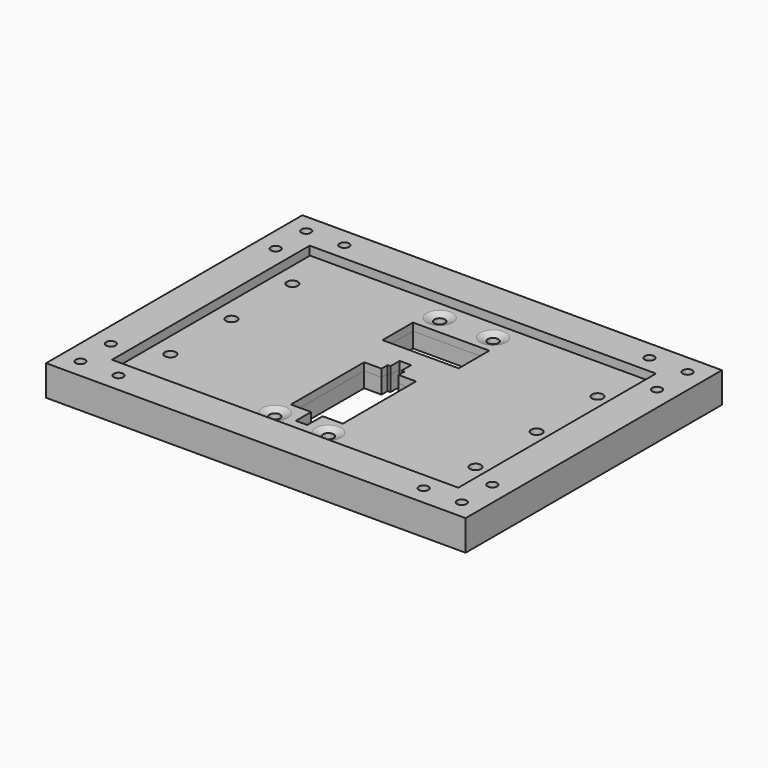
from build123d import *

# Parameters (mm, degrees)
SKETCH_W        = 90
SKETCH_H        = 64
SKETCH_R        = 1.4
SKETCH_W_2      = 20
SKETCH_H_2      = 10
PAD_DEPTH       = 4
POCKET_DEPTH    = 2
SKETCH005_W     = 110
SKETCH005_H     = 84
SKETCH005_R     = 1.25
SKETCH005_W_2   = 90
SKETCH005_H_2   = 64
PAD002_DEPTH    = 8
SKETCH006_W     = 90.8
SKETCH006_H     = 64.8
POCKET001_DEPTH = 4
SKETCH003_W     = 90
SKETCH003_H     = 64
SKETCH003_R     = 1.4
SKETCH003_W_2   = 20
SKETCH003_H_2   = 10
SKETCH003_W_3   = 13.6
SKETCH003_H_3   = 24
PAD001_DEPTH    = 2
SKETCH004_R     = 1.45
HOLE_DEPTH      = 25
SKETCH007_W     = 3
SKETCH007_H     = 5
POCKET002_DEPTH = 2.001
CHAMFER_SIZE2   = 0.8
CHAMFER_SIZE    = 2


with BuildPart() as mountingplatebody:
    # Sketch → Pad (new body)
    with BuildSketch(Plane.XY):
        Rectangle(SKETCH_W, SKETCH_H)
        with Locations((-40, 20)):
            Circle(SKETCH_R, mode=Mode.SUBTRACT)
        with Locations((-40, 0)):
            Circle(SKETCH_R, mode=Mode.SUBTRACT)
        with Locations((-40, -20)):
            Circle(SKETCH_R, mode=Mode.SUBTRACT)
        with Locations((40, 20)):
            Circle(SKETCH_R, mode=Mode.SUBTRACT)
        with Locations((40, 0)):
            Circle(SKETCH_R, mode=Mode.SUBTRACT)
        with Locations((40, -20)):
            Circle(SKETCH_R, mode=Mode.SUBTRACT)
        with Locations((-7, 27)):
            Circle(SKETCH_R, mode=Mode.SUBTRACT)
        with Locations((7, 27)):
            Circle(SKETCH_R, mode=Mode.SUBTRACT)
        with Locations((7, -27)):
            Circle(SKETCH_R, mode=Mode.SUBTRACT)
        with Locations((-7, -27)):
            Circle(SKETCH_R, mode=Mode.SUBTRACT)
        with Locations((0, 17)):
            Rectangle(SKETCH_W_2, SKETCH_H_2, mode=Mode.SUBTRACT)
        Polygon((-6.8, 2), (-2.25, 2), (-2.25, 4), (-1.5, 4), (-1.5, 7), (1.5, 7), (1.5, 4), (2.25, 4), (2.25, 2), (6.8, 2), (6.8, -22), (1.5, -22), (1.5, -27), (-1.5, -27), (-1.5, -22), (-6.8, -22), align=None, mode=Mode.SUBTRACT)
    extrude(amount=PAD_DEPTH)

    # Sketch002 (on DatumPlane) → Pocket (cut)
    with BuildSketch(Plane.XY.offset(4)):
        Polygon((42.7, 21.558846), (40, 23.117691), (37.3, 21.558846), (37.3, 18.441154), (40, 16.882309), (42.7, 18.441154), align=None)
        Polygon((-40, 3.117691), (-42.7, 1.558846), (-42.7, -1.558846), (-40, -3.117691), (-37.3, -1.558846), (-37.3, 1.558846), align=None)
        Polygon((40, 3.117691), (37.3, 1.558846), (37.3, -1.558846), (40, -3.117691), (42.7, -1.558846), (42.7, 1.558846), align=None)
        Polygon((40, -23.117691), (42.7, -21.558846), (42.7, -18.441154), (40, -16.882309), (37.3, -18.441154), (37.3, -21.558846), align=None)
        Polygon((-37.3, 18.441154), (-37.3, 21.558846), (-40, 23.117691), (-42.7, 21.558846), (-42.7, 18.441154), (-40, 16.882309), align=None)
        Polygon((-40, -23.117691), (-37.3, -21.558846), (-37.3, -18.441154), (-40, -16.882309), (-42.7, -18.441154), (-42.7, -21.558846), align=None)
    extrude(amount=-POCKET_DEPTH, mode=Mode.SUBTRACT)

    # Sketch005 (on Face4 of Pocket) → Pad002 (join)
    with BuildSketch(Plane(origin=(0, 0, 0), x_dir=(1, 0, 0), z_dir=(0, 0, -1))):
        Rectangle(SKETCH005_W, SKETCH005_H)
        with Locations((-50, 37)):
            Circle(SKETCH005_R, mode=Mode.SUBTRACT)
        with Locations((-50, 27)):
            Circle(SKETCH005_R, mode=Mode.SUBTRACT)
        with Locations((-40, 37)):
            Circle(SKETCH005_R, mode=Mode.SUBTRACT)
        with Locations((50, 27)):
            Circle(SKETCH005_R, mode=Mode.SUBTRACT)
        with Locations((50, 37)):
            Circle(SKETCH005_R, mode=Mode.SUBTRACT)
        with Locations((40, 37)):
            Circle(SKETCH005_R, mode=Mode.SUBTRACT)
        with Locations((-50, -37)):
            Circle(SKETCH005_R, mode=Mode.SUBTRACT)
        with Locations((-40, -37)):
            Circle(SKETCH005_R, mode=Mode.SUBTRACT)
        with Locations((-50, -27)):
            Circle(SKETCH005_R, mode=Mode.SUBTRACT)
        with Locations((40, -37)):
            Circle(SKETCH005_R, mode=Mode.SUBTRACT)
        with Locations((50, -37)):
            Circle(SKETCH005_R, mode=Mode.SUBTRACT)
        with Locations((50, -27)):
            Circle(SKETCH005_R, mode=Mode.SUBTRACT)
        Rectangle(SKETCH005_W_2, SKETCH005_H_2, mode=Mode.SUBTRACT)
    extrude(amount=-PAD002_DEPTH)

    # Sketch006 (on Face56 of Pad002) → Pocket001 (cut)
    with BuildSketch(Plane.XY.offset(8)):
        Rectangle(SKETCH006_W, SKETCH006_H)
    extrude(amount=-POCKET001_DEPTH, mode=Mode.SUBTRACT)


with BuildPart() as coverplatebody:
    # Sketch003 → Pad001 (new body)
    with BuildSketch(Plane.XY):
        Rectangle(SKETCH003_W, SKETCH003_H)
        with Locations((-40, 20)):
            Circle(SKETCH003_R, mode=Mode.SUBTRACT)
        with Locations((-40, 0)):
            Circle(SKETCH003_R, mode=Mode.SUBTRACT)
        with Locations((-40, -20)):
            Circle(SKETCH003_R, mode=Mode.SUBTRACT)
        with Locations((40, 20)):
            Circle(SKETCH003_R, mode=Mode.SUBTRACT)
        with Locations((40, 0)):
            Circle(SKETCH003_R, mode=Mode.SUBTRACT)
        with Locations((40, -20)):
            Circle(SKETCH003_R, mode=Mode.SUBTRACT)
        with Locations((-7, 27)):
            Circle(SKETCH003_R, mode=Mode.SUBTRACT)
        with Locations((7, 27)):
            Circle(SKETCH003_R, mode=Mode.SUBTRACT)
        with Locations((7, -27)):
            Circle(SKETCH003_R, mode=Mode.SUBTRACT)
        with Locations((-7, -27)):
            Circle(SKETCH003_R, mode=Mode.SUBTRACT)
        with Locations((0, 17)):
            Rectangle(SKETCH003_W_2, SKETCH003_H_2, mode=Mode.SUBTRACT)
        with Locations((0, -10)):
            Rectangle(SKETCH003_W_3, SKETCH003_H_3, mode=Mode.SUBTRACT)
    extrude(amount=PAD001_DEPTH)

    # Sketch004 (on DatumPlane) → Hole (cut)
    with BuildSketch(Plane.XY.offset(2)):
        with Locations((40, 20)):
            Circle(SKETCH004_R)
        with Locations((40, -20)):
            Circle(SKETCH004_R)
        with Locations((-40, 0)):
            Circle(SKETCH004_R)
        with Locations((40, 0)):
            Circle(SKETCH004_R)
        with Locations((-40, 20)):
            Circle(SKETCH004_R)
        with Locations((-40, -20)):
            Circle(SKETCH004_R)
    extrude(amount=-HOLE_DEPTH, mode=Mode.SUBTRACT)

    # Sketch007 (on Face5 of Hole) → Pocket002 (cut, through all)
    with BuildSketch(Plane.XY.offset(2)):
        Polygon((1.5, 4), (1.5, 7), (-1.5, 7), (-1.5, 4), (-2.25, 4), (-2.25, 2), (2.25, 2), (2.25, 4), align=None)
        with Locations((0, -24.5)):
            Rectangle(SKETCH007_W, SKETCH007_H)
    extrude(amount=-POCKET002_DEPTH, mode=Mode.SUBTRACT)

    # Chamfer
    chamfer_edges = [coverplatebody.edges().sort_by_distance(p)[0] for p in [
        (5.6, -27, 2),
        (-8.4, -27, 2),
        (5.6, 27, 2),
        (-8.4, 27, 2),
    ]]
    chamfer_side = coverplatebody.faces().sort_by_distance((0, 30.895645, 2))[0]
    chamfer(chamfer_edges, length=CHAMFER_SIZE, length2=CHAMFER_SIZE2, reference=chamfer_side)


with BuildPart() as coverplatebody_1:
    # Body001 placement: moved
    add(coverplatebody.part.moved(Location((0, 0, 4))))


solid = Compound([mountingplatebody.part, coverplatebody_1.part])
